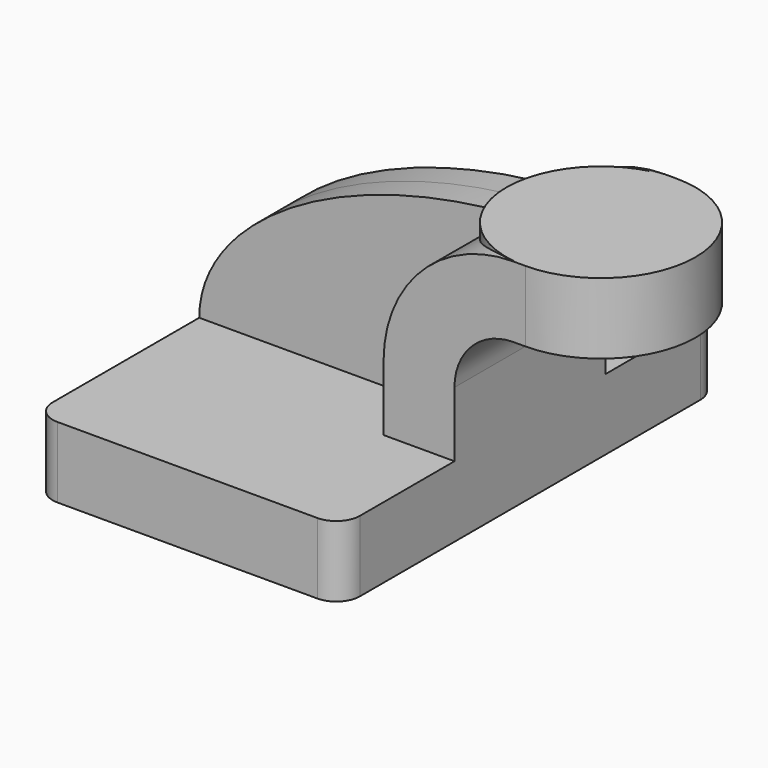
from build123d import *

# Parameters (mm, degrees)
F1_DEPTH = 63.5
F2_DEPTH = 25.4
F3_DEPTH = 7.9375
F0_W     = 25.4
F0_H     = 19.05
F5_R     = 6.35


with BuildPart() as f1:
    # F0 (on Front) → F1 (new body, symmetric)
    with BuildSketch(Plane.XZ):
        Polygon((-41.275, 9.525), (-41.275, -9.525), (41.275, -9.525), (41.275, 9.525), (22.225, 9.525), align=None)
    extrude(amount=F1_DEPTH, both=True)

    # F0 (on Front) → F2 (join, symmetric)
    with BuildSketch(Plane.XZ):
        with BuildLine():
            Line((22.225, 9.525), (41.275, 9.525))
            Line((41.275, 9.525), (41.275, 27.0002))
            ThreePointArc((41.275, 27.0002), (45.9246798487, 38.2255201513), (57.15, 42.8752))
            Line((57.15, 42.8752), (60.325, 42.8752))
            Line((60.325, 42.8752), (60.325, 61.9252))
            Line((60.325, 61.9252), (57.15, 61.9252))
            ThreePointArc((57.15, 61.9252), (32.4542956671, 51.6959043329), (22.225, 27.0002))
            Line((22.225, 27.0002), (22.225, 9.525))
        make_face()
    extrude(amount=F2_DEPTH, both=True)

    # F0 (on Front) → F3 (join, symmetric)
    with BuildSketch(Plane.XZ):
        with BuildLine():
            add(Edge.make_bspline(
                [(-41.275, 9.525), (-41.275, 35.2953113616), (0, 61.9252), (57.15, 61.9252)],
                knots=[0, 0, 0, 0, 111.5045361635, 111.5045361635, 111.5045361635, 111.5045361635], degree=3))
            Line((-41.275, 9.525), (22.225, 9.525))
            Line((22.225, 9.525), (22.225, 27.0002))
            ThreePointArc((22.225, 27.0002), (32.4542956671, 51.6959043329), (57.15, 61.9252))
        make_face()
    extrude(amount=F3_DEPTH, both=True)

    # F0 (on Front) → F4 (revolve)
    with BuildSketch(Plane.XZ):
        with Locations((73.025, 52.4002)):
            Rectangle(F0_W, F0_H)
    revolve(axis=Axis((60.325, 0, 52.3875), (0, 0, -1)))

    # F5
    f5_edges = [f1.edges().sort_by_distance(p)[0] for p in [
        (-41.275, -63.5, 0),
        (41.275, -63.5, 0),
        (41.275, 63.5, 0),
        (-41.275, 63.5, 0),
    ]]
    fillet(f5_edges, radius=F5_R)


solid = f1.part
